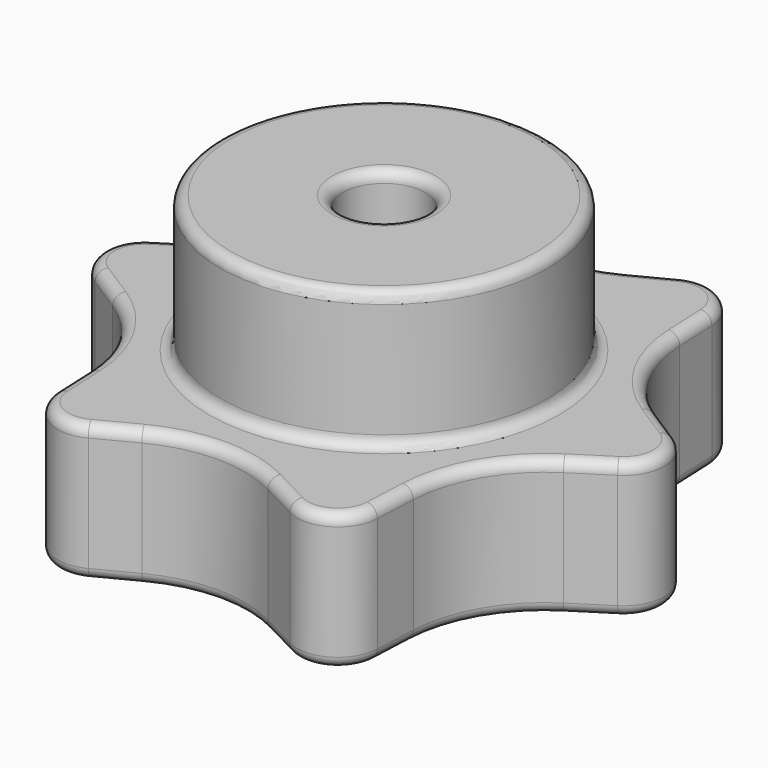
from build123d import *

# Parameters (mm, degrees)
F0_R     = 6
F0_R_2   = 1.5
F1_DEPTH = 5
F2_DEPTH = 5
F3_DEPTH = 2.6
F4_R     = 1.5
F5_R     = 5
F6_R     = 0.4


with BuildPart() as f1:
    # F0 (on Top) → F1 (new body)
    with BuildSketch(Plane.XY):
        Polygon((6.0621778265, 3.5), (5.7735026919, 10), (0, 7), (-5.7735026919, 10), (-6.0621778265, 3.5), (-11.5470053838, 0), (-6.0621778265, -3.5), (-5.7735026919, -10), (0, -7), (5.7735026919, -10), (6.0621778265, -3.5), (11.5470053838, 0), align=None)
        Circle(F0_R, mode=Mode.SUBTRACT)
        Circle(F0_R)
        Polygon((-3.1754264805, 0), (-1.5877132403, 2.75), (1.5877132403, 2.75), (3.1754264805, 0), (1.5877132403, -2.75), (-1.5877132403, -2.75), align=None, mode=Mode.SUBTRACT)
        Polygon((1.5877132403, 2.75), (-1.5877132403, 2.75), (-3.1754264805, 0), (-1.5877132403, -2.75), (1.5877132403, -2.75), (3.1754264805, 0), align=None)
        Circle(F0_R_2, mode=Mode.SUBTRACT)
    extrude(amount=-F1_DEPTH)

    # F0 (on Top) → F2 (join)
    with BuildSketch(Plane.XY):
        Circle(F0_R)
        Polygon((-3.1754264805, 0), (-1.5877132403, 2.75), (1.5877132403, 2.75), (3.1754264805, 0), (1.5877132403, -2.75), (-1.5877132403, -2.75), align=None, mode=Mode.SUBTRACT)
        Polygon((1.5877132403, 2.75), (-1.5877132403, 2.75), (-3.1754264805, 0), (-1.5877132403, -2.75), (1.5877132403, -2.75), (3.1754264805, 0), align=None)
        Circle(F0_R_2, mode=Mode.SUBTRACT)
    extrude(amount=F2_DEPTH)

    # F0 (on Top) → F3 (cut)
    with BuildSketch(Plane.XY):
        Polygon((1.5877132403, 2.75), (-1.5877132403, 2.75), (-3.1754264805, 0), (-1.5877132403, -2.75), (1.5877132403, -2.75), (3.1754264805, 0), align=None)
        Circle(F0_R_2, mode=Mode.SUBTRACT)
    extrude(amount=-F3_DEPTH, mode=Mode.SUBTRACT)

    # F4
    f4_edges = [f1.edges().sort_by_distance(p)[0] for p in [
        (-11.547005, 0, -2.5),
        (-5.773503, -10, -2.5),
        (5.773503, -10, -2.5),
        (11.547005, 0, -2.5),
        (5.773503, 10, -2.5),
        (-5.773503, 10, -2.5),
    ]]
    fillet(f4_edges, radius=F4_R)

    # F5
    f5_edges = [f1.edges().sort_by_distance(p)[0] for p in [
        (6.062178, -3.5, -2.5),
        (6.062178, 3.5, -2.5),
        (0, 7, -2.5),
        (-6.062178, 3.5, -2.5),
        (-6.062178, -3.5, -2.5),
        (0, -7, -2.5),
    ]]
    fillet(f5_edges, radius=F5_R)

    # F6
    f6_edges = [f1.edges().sort_by_distance(p)[0] for p in [
        (5.912351, -6.873596, 0),
        (6.611856, -3.817357, 0),
        (5.129273, -8.884161, 0),
        (8.908884, -1.683448, 0),
        (2.996533, -8.557044, 0),
        (10.258545, 0, 0),
        (0, -7.634714, 0),
        (8.908884, 1.683448, 0),
        (-2.996533, -8.557044, 0),
        (6.611856, 3.817357, 0),
        (-5.129273, -8.884161, 0),
        (5.912351, 6.873596, 0),
        (-5.912351, -6.873596, 0),
        (5.129273, 8.884161, 0),
        (-6.611856, -3.817357, 0),
        (2.996533, 8.557044, 0),
        (-8.908884, -1.683448, 0),
        (0, 7.634714, 0),
        (-10.258545, 0, 0),
        (-2.996533, 8.557044, 0),
        (-8.908884, 1.683448, 0),
        (-5.129273, 8.884161, 0),
        (-6.611856, 3.817357, 0),
        (-5.912351, 6.873596, 0),
        (-6, 0, 0),
        (5.912351, -6.873596, -5),
        (6.611856, -3.817357, -5),
        (5.129273, -8.884161, -5),
        (8.908884, -1.683448, -5),
        (2.996533, -8.557044, -5),
        (10.258545, 0, -5),
        (0, -7.634714, -5),
        (8.908884, 1.683448, -5),
        (-2.996533, -8.557044, -5),
        (6.611856, 3.817357, -5),
        (-5.129273, -8.884161, -5),
        (5.912351, 6.873596, -5),
        (-5.912351, -6.873596, -5),
        (5.129273, 8.884161, -5),
        (-6.611856, -3.817357, -5),
        (2.996533, 8.557044, -5),
        (-8.908884, -1.683448, -5),
        (0, 7.634714, -5),
        (-10.258545, 0, -5),
        (-2.996533, 8.557044, -5),
        (-8.908884, 1.683448, -5),
        (-5.129273, 8.884161, -5),
        (-6.611856, 3.817357, -5),
        (-5.912351, 6.873596, -5),
        (-1.5, 0, -5),
        (-6, 0, 5),
        (-1.5, 0, 5),
    ]]
    fillet(f6_edges, radius=F6_R)


solid = f1.part
